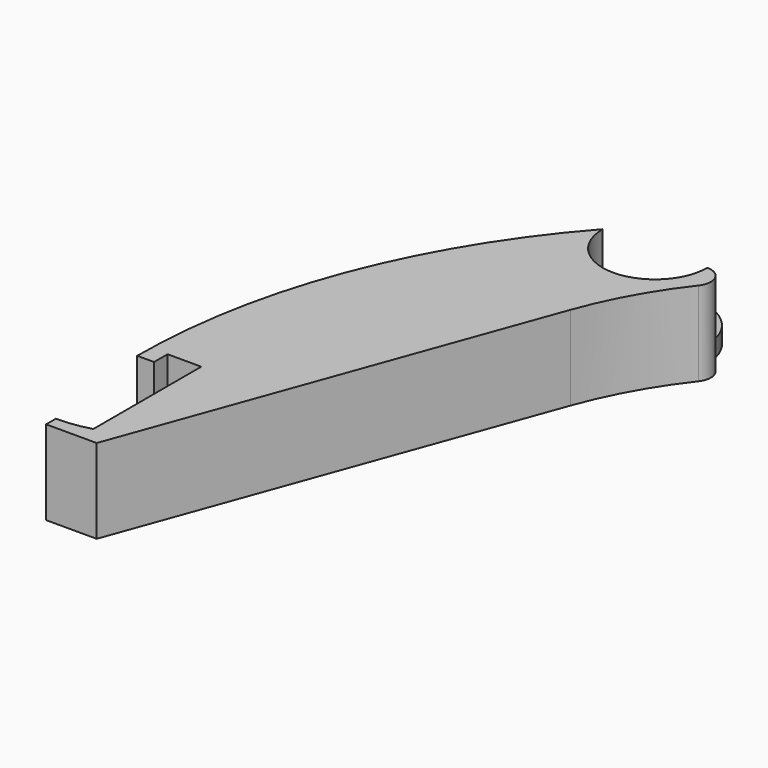
from build123d import *

# Parameters (mm, degrees)
F1_DEPTH = 25
F2_DEPTH = 5


with BuildPart() as f1:
    # F0 (on Top) → F1 (new body)
    with BuildSketch(Plane.XY):
        with BuildLine():
            Line((-10, 0), (0, 0))
            Line((0, 0), (0, -40))
            ThreePointArc((0, -40), (-4.9512, -41.048712), (-10, -41.400549))
            Line((-10, -41.400549), (-10, -45))
            Line((-10, -45), (5, -45))
            Line((5, -45), (48.925537, 75.68442))
            ThreePointArc((48.925537, 75.68442), (55.595415, 90.308655), (64.478844, 103.704185))
            ThreePointArc((64.478844, 103.704185), (65.043731, 109.03319), (60.5, 111.874299))
            ThreePointArc((60.5, 111.874299), (45, 96.374299), (29.5, 111.874299))
            ThreePointArc((29.5, 111.874299), (-3.498619, 57.529697), (-15, -5))
            Line((-15, -5), (-10, -5))
            Line((-10, -5), (-10, 0))
        make_face()
    extrude(amount=F1_DEPTH)

    # F0 (on Top) → F2 (join)
    with BuildSketch(Plane.XY):
        with BuildLine():
            Line((60.5, 111.874299), (29.5, 111.874299))
            ThreePointArc((29.5, 111.874299), (45, 96.374299), (60.5, 111.874299))
        make_face()
        with BuildLine():
            ThreePointArc((60.5, 111.874299), (45, 127.374299), (29.5, 111.874299))
            Line((29.5, 111.874299), (60.5, 111.874299))
        make_face()
    extrude(amount=F2_DEPTH)


solid = f1.part
